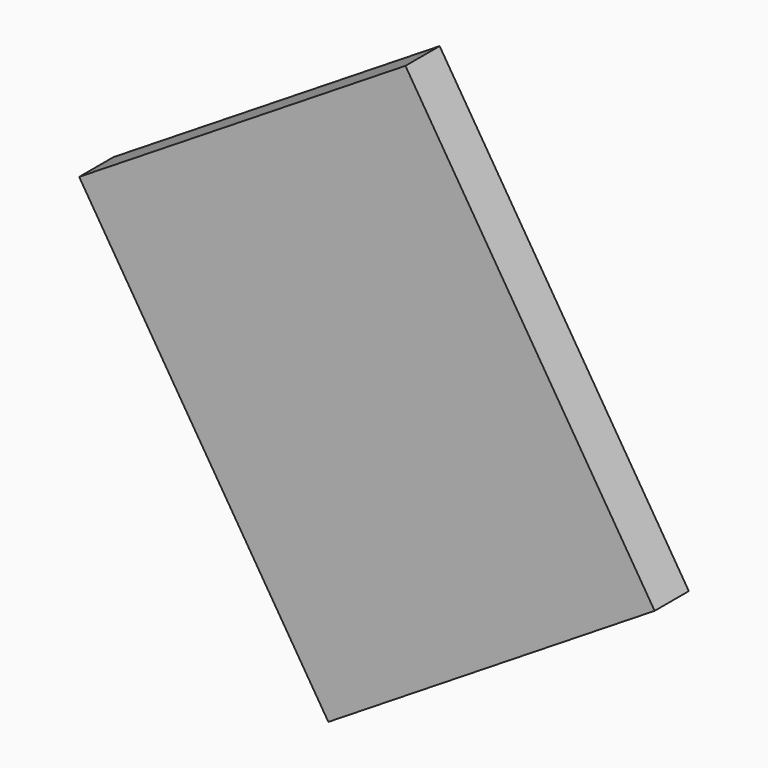
from build123d import *

# Parameters (mm, degrees)
CYLINDER064_R          = 0.5
CYLINDER064_DEPTH      = 0.01
BOX143_W               = 4.5
BOX143_H               = 5.5
BOX143_DEPTH           = 0.5
CUT065_ROLL_ANGLE      = 90
CUT065_PITCH_ANGLE     = 32
CUT065_PLACEMENT_ANGLE = -180


with BuildPart() as cylinder064:
    # Cylinder064 → Cylinder064 (new body)
    with BuildSketch(Plane(origin=(1, 4.5, 0.49), x_dir=(1, 0, 0), z_dir=(0, 0, 1))):
        Circle(CYLINDER064_R)
    extrude(amount=CYLINDER064_DEPTH)


with BuildPart() as obj1:
    # Box143 → Box143 (new body)
    with BuildSketch(Plane.XY):
        with Locations((2.25, 2.75)):
            Rectangle(BOX143_W, BOX143_H)
    extrude(amount=BOX143_DEPTH)

    # Cut065: cut Cylinder064
    add(cylinder064.part, mode=Mode.SUBTRACT)


with BuildPart() as obj1_1:
    # Cut065 roll: moved
    add(obj1.part.rotate(Axis((0, 0, 0), (1, 0, 0)), CUT065_ROLL_ANGLE))


with BuildPart() as obj1_2:
    # Cut065 pitch: moved
    add(obj1_1.part.rotate(Axis((0, 0, 0), (0, 1, 0)), CUT065_PITCH_ANGLE))


with BuildPart() as obj1_3:
    # Cut065 placement: moved
    add(obj1_2.part.moved(Location((-2.69879, 3.34, 52.517519))).rotate(Axis((-2.69879, 3.34, 52.517519), (0, 0, 1)), CUT065_PLACEMENT_ANGLE))


solid = obj1_3.part
